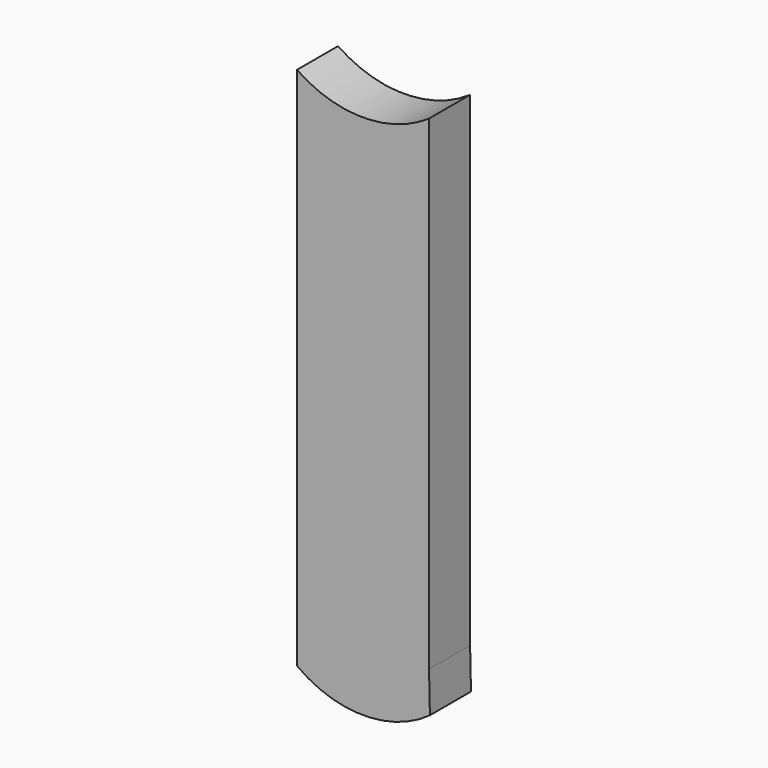
from build123d import *

# Parameters (mm, degrees)
F1_DEPTH = 9.398


with BuildPart() as f1:
    # F0 (on Front) → F1 (new body)
    with BuildSketch(Plane.XZ):
        with BuildLine():
            Line((16.137162, 43.196354), (16.137162, 34.891911))
            ThreePointArc((16.137162, 34.891911), (28.218261, 32.258096), (40.29936, 34.891911))
            Line((40.29936, 34.891911), (40.29936, 43.196354))
            ThreePointArc((40.29936, 43.196354), (28.218261, 39.441099), (16.137162, 43.196354))
        make_face()
        with BuildLine():
            ThreePointArc((40.29936, -45.501441), (28.231979, -51.583741), (16.137162, -45.556184))
            Line((16.137162, -45.556184), (16.144373, -52.855063))
            ThreePointArc((16.144373, -52.855063), (28.295737, -56.862997), (40.46179, -52.899871))
            Line((40.46179, -52.899871), (40.29936, -45.501441))
        make_face()
        with BuildLine():
            ThreePointArc((40.29936, 34.891911), (28.218261, 32.258096), (16.137162, 34.891911))
            Line((16.137162, 34.891911), (16.137162, -45.556184))
            ThreePointArc((16.137162, -45.556184), (28.231979, -51.583741), (40.29936, -45.501441))
            Line((40.29936, -45.501441), (40.29936, 34.891911))
        make_face()
    extrude(amount=F1_DEPTH)


solid = f1.part
